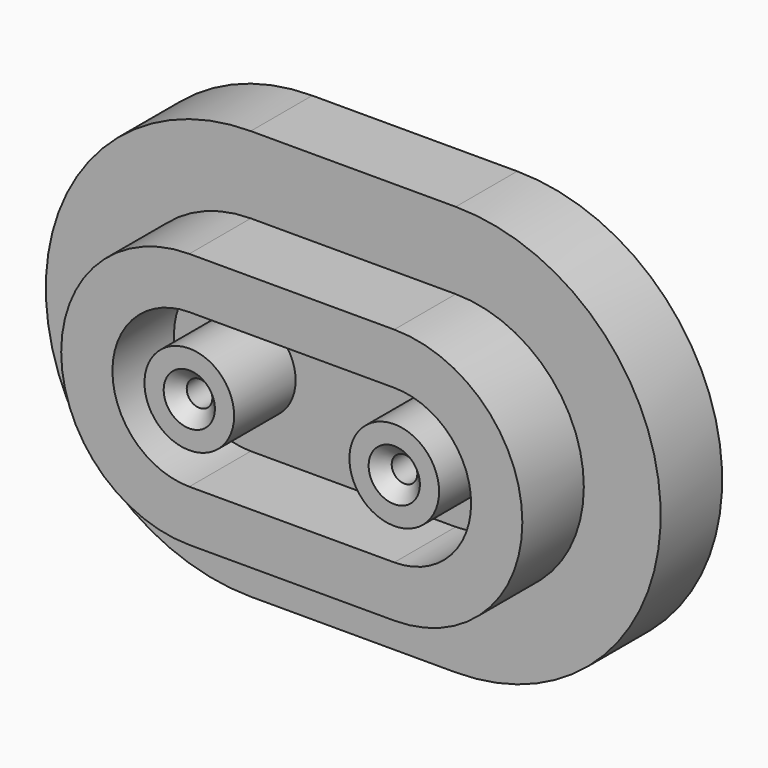
from build123d import *

# Parameters (mm, degrees)
F1_DEPTH       = 76.2
F2_DEPTH       = 152.4
F3_R           = 44.45
F4_DEPTH       = 76.2
F6_D           = 25.4
F6_CSINK_D     = 50.8
F6_CSINK_ANGLE = 90
F8_DEPTH       = 25.4


with BuildPart() as f1:
    # F0 (on Front) → F1 (new body)
    with BuildSketch(Plane.XZ):
        with BuildLine():
            Line((203.2, 203.2), (0, 203.2))
            ThreePointArc((0, 203.2), (-203.2, 0), (0, -203.2))
            Line((0, -203.2), (203.2, -203.2))
            ThreePointArc((203.2, -203.2), (406.4, 0), (203.2, 203.2))
        make_face()
        with BuildLine():
            ThreePointArc((0, -127), (-127, 0), (0, 127))
            Line((0, 127), (203.2, 127))
            ThreePointArc((203.2, 127), (330.2, 0), (203.2, -127))
            Line((203.2, -127), (0, -127))
        make_face(mode=Mode.SUBTRACT)
        with BuildLine():
            Line((203.2, 127), (0, 127))
            ThreePointArc((0, 127), (-127, 0), (0, -127))
            Line((0, -127), (203.2, -127))
            ThreePointArc((203.2, -127), (330.2, 0), (203.2, 127))
        make_face()
    extrude(amount=F1_DEPTH)

    # F0 (on Front) → F2 (join)
    with BuildSketch(Plane.XZ):
        with BuildLine():
            Line((203.2, 127), (0, 127))
            ThreePointArc((0, 127), (-127, 0), (0, -127))
            Line((0, -127), (203.2, -127))
            ThreePointArc((203.2, -127), (330.2, 0), (203.2, 127))
        make_face()
    extrude(amount=F2_DEPTH)

    # F3 (on face) → F4 (cut)
    with BuildSketch(Plane.XZ.offset(152.4)):
        with BuildLine():
            Line((203.2, 76.2), (0, 76.2))
            ThreePointArc((0, 76.2), (-76.2, 0), (0, -76.2))
            Line((0, -76.2), (203.2, -76.2))
            ThreePointArc((203.2, -76.2), (279.4, 0), (203.2, 76.2))
        make_face()
        Circle(F3_R, mode=Mode.SUBTRACT)
        with Locations((203.2, 0)):
            Circle(F3_R, mode=Mode.SUBTRACT)
    extrude(amount=-F4_DEPTH, mode=Mode.SUBTRACT)

    # F6 (through all)
    with Locations(Plane.XZ.offset(152.4)):
        with Locations((0, 0), (203.2, 0)):
            CounterSinkHole(F6_D / 2, F6_CSINK_D / 2, counter_sink_angle=F6_CSINK_ANGLE)

    # F7 (on face) → F8 (cut)
    with BuildSketch(Plane.XZ):
        with BuildLine():
            Line((203.2, 101.6), (0, 101.6))
            ThreePointArc((0, 101.6), (-101.6, 0), (0, -101.6))
            Line((0, -101.6), (203.2, -101.6))
            ThreePointArc((203.2, -101.6), (304.8, 0), (203.2, 101.6))
        make_face()
    extrude(amount=F8_DEPTH, mode=Mode.SUBTRACT)


solid = f1.part
